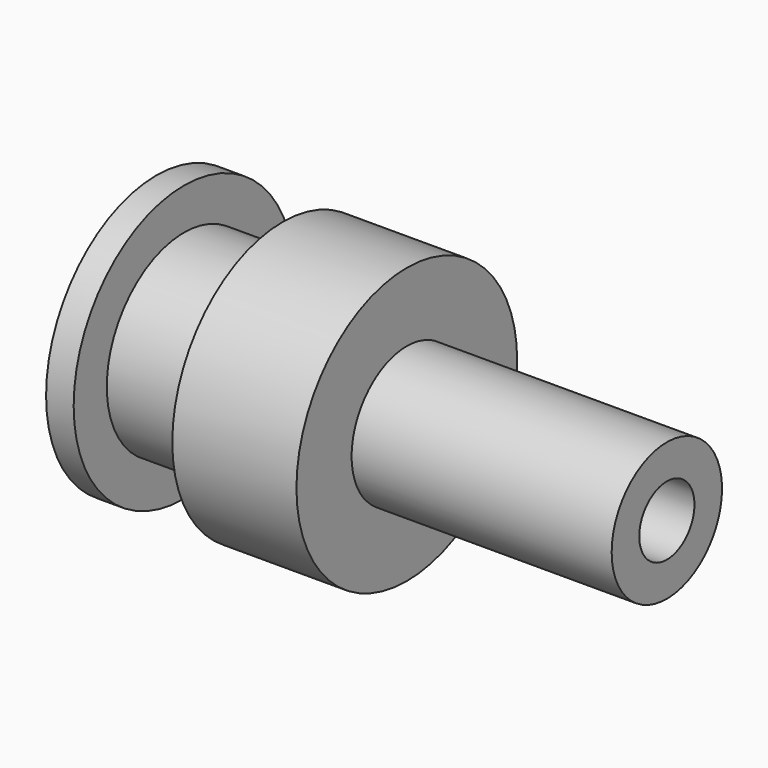
from build123d import *

# Parameters (mm, degrees)
F3_R      = 7
F3_R_2    = 5
F4_DEPTH  = 7.15
F5_R      = 10
F5_R_2    = 5
F6_DEPTH  = 2
F7_R      = 10
F7_R_2    = 5
F8_DEPTH  = 9
F9_R      = 5
F10_DEPTH = 37
F11_D     = 5


with BuildPart() as f4:
    # F3 (on Right) → F4 (new body)
    with BuildSketch(Plane.YZ):
        Circle(F3_R)
        Circle(F3_R_2, mode=Mode.SUBTRACT)
    extrude(amount=F4_DEPTH)

    # F5 (on face) → F6 (join)
    with BuildSketch(Plane(origin=(0, 0, 0), x_dir=(0, -1, 0), z_dir=(-1, 0, 0))):
        Circle(F5_R)
        Circle(F5_R_2, mode=Mode.SUBTRACT)
    extrude(amount=F6_DEPTH)


with BuildPart() as f8:
    # F7 (on face) → F8 (new body)
    with BuildSketch(Plane.YZ.offset(7.15)):
        Circle(F7_R)
        Circle(F7_R_2, mode=Mode.SUBTRACT)
    extrude(amount=F8_DEPTH)


with BuildPart() as f10:
    # F9 (on face) → F10 (new body)
    with BuildSketch(Plane(origin=(-2, 0, 0), x_dir=(0, -1, 0), z_dir=(-1, 0, 0))):
        Circle(F9_R)
    extrude(amount=-F10_DEPTH)

    # F11 (through all)
    with Locations(Plane(origin=(-2, 0, 0), x_dir=(0, -1, 0), z_dir=(-1, 0, 0))):
        with Locations((0, 0)):
            Hole(F11_D / 2)


solid = Compound([f4.part, f8.part, f10.part])
